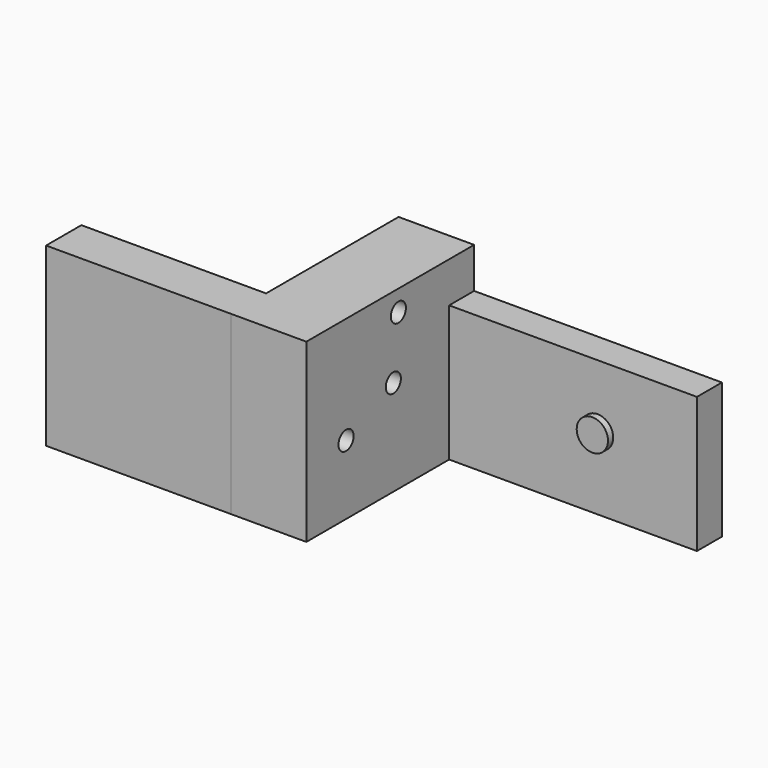
from build123d import *

# Parameters (mm, degrees)
F0_W     = 62.077142
F0_H     = 59.255235
F1_DEPTH = 14.824914
F2_W     = 70.476621
F2_H     = 59.255235
F3_DEPTH = 25.4
F4_W     = 10.496232
F4_H     = 45.620956
F5_DEPTH = 83.277501
F6_R     = 5.256792
F7_DEPTH = 12.7
F9_D     = 6.35


with BuildPart() as f1:
    # F0 (on Front) → F1 (new body)
    with BuildSketch(Plane.XZ):
        with Locations((31.038571, 29.627617)):
            Rectangle(F0_W, F0_H)
    extrude(amount=-F1_DEPTH)

    # F2 (on face) → F3 (join)
    with BuildSketch(Plane.YZ.offset(62.077142)):
        with Locations((35.23831, 29.627617)):
            Rectangle(F2_W, F2_H)
    extrude(amount=F3_DEPTH)

    # F4 (on face) → F5 (join)
    with BuildSketch(Plane.YZ.offset(87.477142)):
        with Locations((65.228505, 22.810478)):
            Rectangle(F4_W, F4_H)
    extrude(amount=F5_DEPTH)

    # F6 (on face) → F7 (join, symmetric)
    with BuildSketch(Plane(origin=(0, 70.476621, 0), x_dir=(-1, 0, 0), z_dir=(0, 1, 0))):
        with Locations((-137.36628, 24.403818)):
            Circle(F6_R)
    extrude(amount=F7_DEPTH, both=True)

    # F9 (through all)
    with Locations(Plane.YZ.offset(87.477142)):
        with Locations((16.669355, 23.290077), (36.526144, 32.229573), (38.65239, 52.261315)):
            Hole(F9_D / 2)


solid = f1.part
